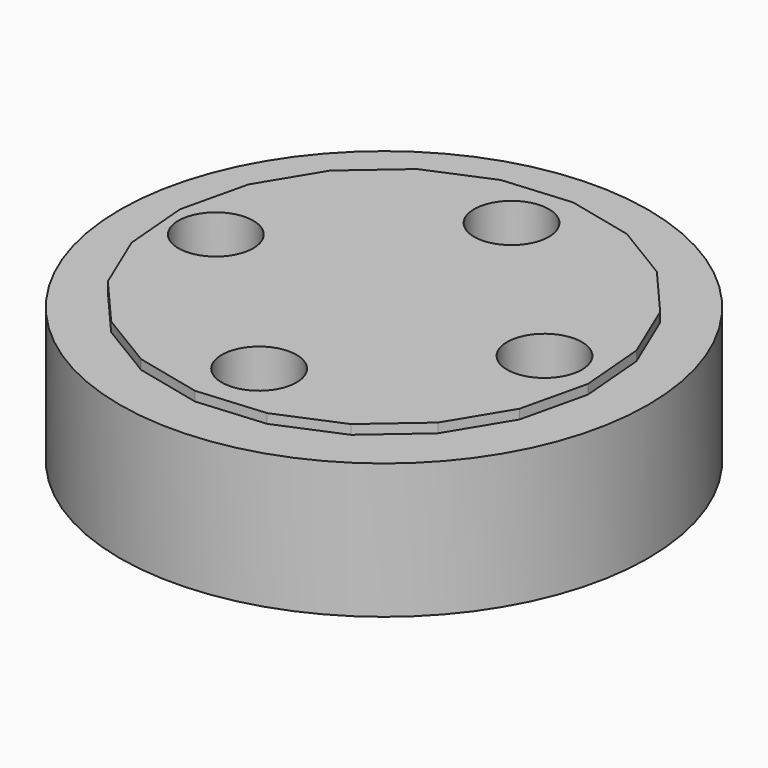
from build123d import *

# Parameters (mm, degrees)
F1_R          = 49.681019
F3_DEPTH      = 25.4
F4_DEPTH      = 27.178
F4_DEPTH_BACK = 2.032
F0_R          = 7.041454
F5_DEPTH      = 75.184
F5_DEPTH_BACK = 119.126


with BuildPart() as f3:
    # F1 (on Top) → F3 (new body)
    with BuildSketch(Plane.XY):
        Circle(F1_R)
    extrude(amount=F3_DEPTH)

    # F2 (on Top) → F4 (join, two sides)
    with BuildSketch(Plane.XY) as f4_sk:
        Polygon((-31.21903, 26.349589), (-37.833532, 15.412737), (-40.744625, 2.96718), (-39.66735, -9.768826), (-34.707159, -21.548591), (-26.349589, -31.21903), (-15.412737, -37.833532), (-2.96718, -40.744625), (9.768826, -39.66735), (21.548591, -34.707159), (31.21903, -26.349589), (37.833532, -15.412737), (40.744625, -2.96718), (39.66735, 9.768826), (34.707159, 21.548591), (26.349589, 31.21903), (15.412737, 37.833532), (2.96718, 40.744625), (-9.768826, 39.66735), (-21.548591, 34.707159), align=None)
    extrude(amount=F4_DEPTH)
    extrude(f4_sk.sketch, amount=-F4_DEPTH_BACK)

    # F0 (on Top) → F5 (cut, two sides)
    with BuildSketch(Plane.XY) as f5_sk:
        with Locations((0, 29.98014)):
            Circle(F0_R)
        with Locations((30.184653, 0)):
            Circle(F0_R)
        with Locations((0, -29.360153)):
            Circle(F0_R)
        with Locations((-31.631861, 0)):
            Circle(F0_R)
    extrude(amount=F5_DEPTH, mode=Mode.SUBTRACT)
    extrude(f5_sk.sketch, amount=-F5_DEPTH_BACK, mode=Mode.SUBTRACT)


solid = f3.part
